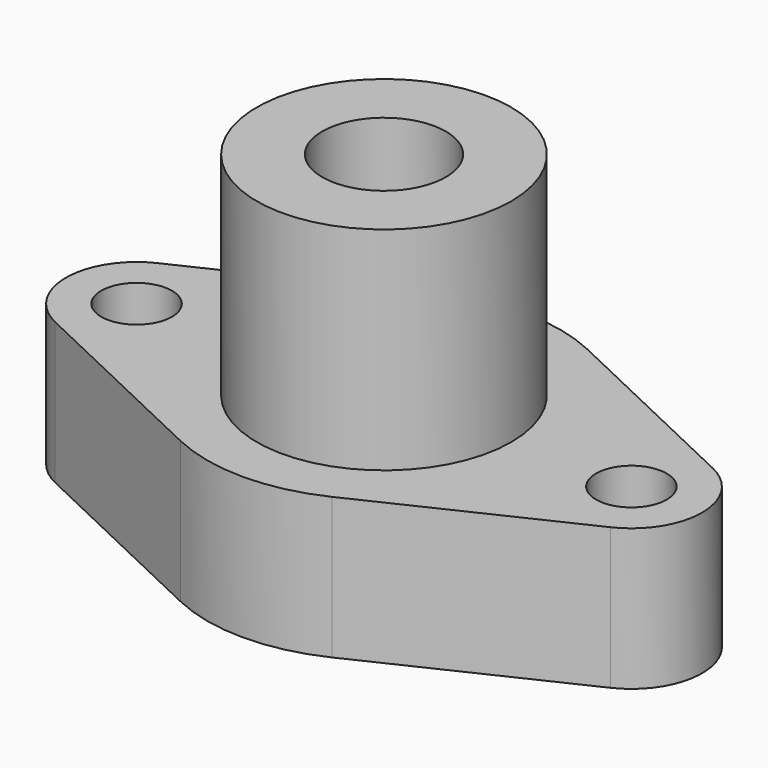
from build123d import *

# Parameters (mm, degrees)
F1_DEPTH = 20
F3_D     = 10
F3_DEPTH = 102
F3_TIP   = 3.0043030951
F4_R     = 18
F5_DEPTH = 30
F7_D     = 17.5
F7_DEPTH = 25
F7_TIP   = 5.2575304165


with BuildPart() as f1:
    # F0 (on Top) → F1 (new body)
    with BuildSketch(Plane.XY):
        with BuildLine():
            Line((-39.2857142857, -9.0350790291), (-10.7142857143, -22.5876975726))
            ThreePointArc((-10.7142857143, -22.5876975726), (0, -25), (10.7142857143, -22.5876975726))
            Line((10.7142857143, -22.5876975726), (39.2857142857, -9.0350790291))
            ThreePointArc((39.2857142857, -9.0350790291), (45, 0), (39.2857142857, 9.0350790291))
            Line((39.2857142857, 9.0350790291), (10.7142857143, 22.5876975726))
            ThreePointArc((10.7142857143, 22.5876975726), (0, 25), (-10.7142857143, 22.5876975726))
            Line((-10.7142857143, 22.5876975726), (-39.2857142857, 9.0350790291))
            ThreePointArc((-39.2857142857, 9.0350790291), (-45, 0), (-39.2857142857, -9.0350790291))
        make_face()
    extrude(amount=F1_DEPTH)

    # F3
    with Locations(Plane.XY.offset(20)):
        with Locations((-35, 0), (35, 0)):
            Hole(F3_D / 2, depth=F3_DEPTH)
            with Locations((0, 0, -(F3_DEPTH + F3_TIP / 2))):  # 118° drill point
                Cone(0, F3_D / 2, F3_TIP, mode=Mode.SUBTRACT)

    # F4 (on face) → F5 (join)
    with BuildSketch(Plane.XY.offset(20)):
        Circle(F4_R)
    extrude(amount=F5_DEPTH)

    # F7
    with Locations(Plane.XY.offset(50)):
        with Locations((0, 0)):
            Hole(F7_D / 2, depth=F7_DEPTH)
            with Locations((0, 0, -(F7_DEPTH + F7_TIP / 2))):  # 118° drill point
                Cone(0, F7_D / 2, F7_TIP, mode=Mode.SUBTRACT)


solid = f1.part
